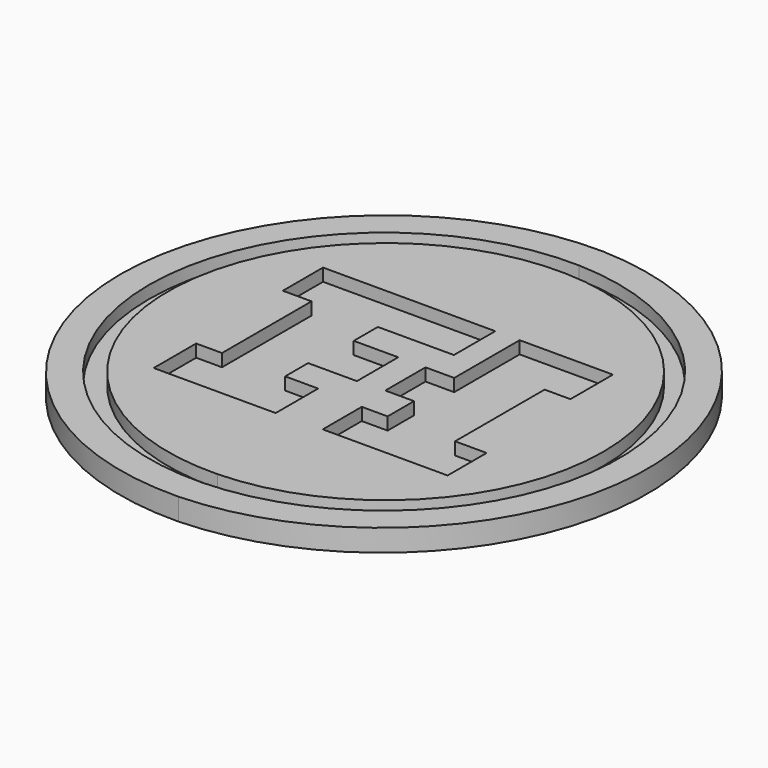
from build123d import *

# Parameters (mm, degrees)
F1_DEPTH = 3.556
F2_DEPTH = 3.556
F3_DEPTH = 1.524
F5_DEPTH = 1.524


with BuildPart() as f1:
    # F0 (on Top) → F1 (new body)
    with BuildSketch(Plane.XY):
        with BuildLine():
            ThreePointArc((0, -35.702139), (34.325082, -0.465175), (0, 34.771789))
            ThreePointArc((0, 34.771789), (-36.16613, -0.465175), (0, -35.702139))
        make_face()
        Polygon((-24.92596, 8.72202), (-24.92596, 16.862573), (2.984505, 16.862573), (2.984505, 8.489433), (-9.342617, 8.489433), (-9.342617, 3.605102), (-2.132414, 3.605102), (-2.132414, -4.768038), (-10.040379, -4.768038), (-10.040379, -9.419782), (-4.690873, -9.419782), (-4.690873, -18.02551), (-24.460785, -18.02551), (-24.460785, -9.419782), (-20.274216, -9.419782), (-20.274216, 8.72202), align=None, mode=Mode.SUBTRACT)
        Polygon((6.938491, 3.605102), (6.938491, 16.862577), (22.056657, 16.862577), (22.056657, 8.256846), (17.870085, 8.256846), (17.870085, -9.884956), (22.987004, -9.884956), (22.987004, -17.792922), (2.751917, -17.792922), (2.751917, -9.884956), (6.938491, -9.884956), (6.938491, -4.535451), (2.286744, -4.535451), (2.286744, 3.605102), align=None, mode=Mode.SUBTRACT)
        with BuildLine():
            ThreePointArc((0, -43.610103), (41.60335, -0.581469), (0, 42.447165))
            ThreePointArc((0, 42.447165), (-43.807111, -0.581469), (0, -43.610103))
        make_face()
        with BuildLine():
            ThreePointArc((0, -38.725771), (-39.164171, -0.581469), (0, 37.562832))
            ThreePointArc((0, 37.562832), (37.010273, -0.581469), (0, -38.725771))
        make_face(mode=Mode.SUBTRACT)
    extrude(amount=F1_DEPTH)


with BuildPart() as f2:
    # F0 (on Top) → F2 (new body)
    with BuildSketch(Plane.XY):
        with BuildLine():
            ThreePointArc((0, -35.702139), (34.325082, -0.465175), (0, 34.771789))
            ThreePointArc((0, 34.771789), (-36.16613, -0.465175), (0, -35.702139))
        make_face()
        Polygon((-24.92596, 8.72202), (-24.92596, 16.862573), (2.984505, 16.862573), (2.984505, 8.489433), (-9.342617, 8.489433), (-9.342617, 3.605102), (-2.132414, 3.605102), (-2.132414, -4.768038), (-10.040379, -4.768038), (-10.040379, -9.419782), (-4.690873, -9.419782), (-4.690873, -18.02551), (-24.460785, -18.02551), (-24.460785, -9.419782), (-20.274216, -9.419782), (-20.274216, 8.72202), align=None, mode=Mode.SUBTRACT)
        Polygon((6.938491, 3.605102), (6.938491, 16.862577), (22.056657, 16.862577), (22.056657, 8.256846), (17.870085, 8.256846), (17.870085, -9.884956), (22.987004, -9.884956), (22.987004, -17.792922), (2.751917, -17.792922), (2.751917, -9.884956), (6.938491, -9.884956), (6.938491, -4.535451), (2.286744, -4.535451), (2.286744, 3.605102), align=None, mode=Mode.SUBTRACT)
    extrude(amount=F2_DEPTH)


with BuildPart() as f3:
    # F0 (on Top) → F3 (new body)
    with BuildSketch(Plane.XY):
        Polygon((2.984505, 16.862573), (-24.92596, 16.862573), (-24.92596, 8.72202), (-20.274216, 8.72202), (-20.274216, -9.419782), (-24.460785, -9.419782), (-24.460785, -18.02551), (-4.690873, -18.02551), (-4.690873, -9.419782), (-10.040379, -9.419782), (-10.040379, -4.768038), (-2.132414, -4.768038), (-2.132414, 3.605102), (-9.342617, 3.605102), (-9.342617, 8.489433), (2.984505, 8.489433), align=None)
        Polygon((22.056657, 16.862577), (6.938491, 16.862577), (6.938491, 3.605102), (2.286744, 3.605102), (2.286744, -4.535451), (6.938491, -4.535451), (6.938491, -9.884956), (2.751917, -9.884956), (2.751917, -17.792922), (22.987004, -17.792922), (22.987004, -9.884956), (17.870085, -9.884956), (17.870085, 8.256846), (22.056657, 8.256846), align=None)
    extrude(amount=F3_DEPTH)


with BuildPart() as f5:
    # F4 (on Top) → F5 (new body)
    with BuildSketch(Plane.XY):
        with BuildLine():
            ThreePointArc((0, -41.516814), (39.647375, -0.697762), (0, 40.121291))
            ThreePointArc((0, 40.121291), (-40.788039, -0.697762), (0, -41.516814))
        make_face()
    extrude(amount=F5_DEPTH)


solid = Compound([f1.part, f2.part, f3.part, f5.part])
